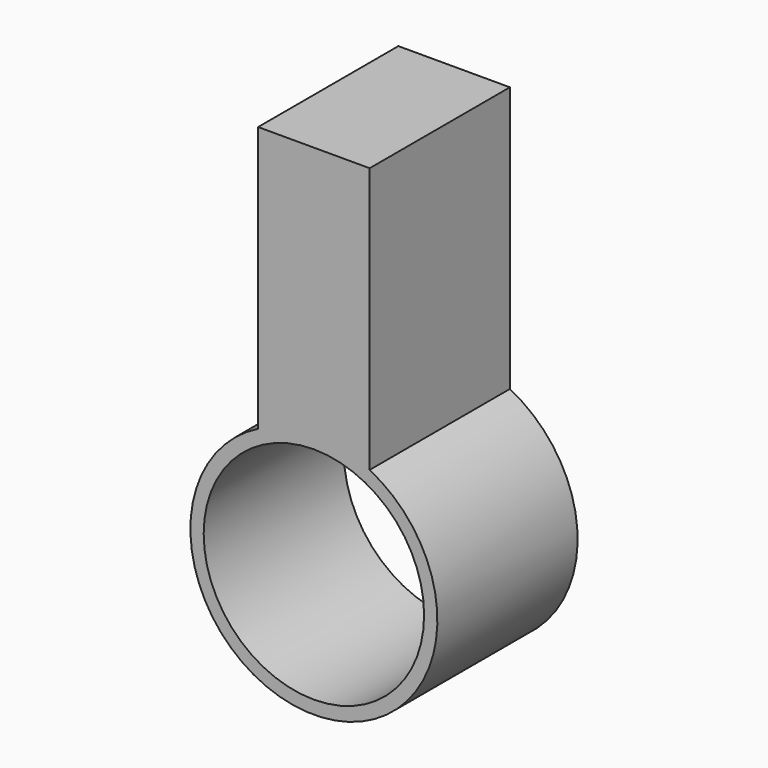
from build123d import *

# Parameters (mm, degrees)
F0_R     = 46.5
F0_R_2   = 41.5
F1_DEPTH = 66
F3_W     = 42
F3_H     = 100
F4_DEPTH = 66


with BuildPart() as f1:
    # F0 (on Front) → F1 (new body)
    with BuildSketch(Plane.XZ):
        Circle(F0_R)
        Circle(F0_R_2, mode=Mode.SUBTRACT)
    extrude(amount=F1_DEPTH)

    # F3 (on offset) → F4 (join)
    with BuildSketch(Plane.XZ.offset(66)):
        with Locations((0, 91.5)):
            Rectangle(F3_W, F3_H)
    extrude(amount=-F4_DEPTH)


solid = f1.part
